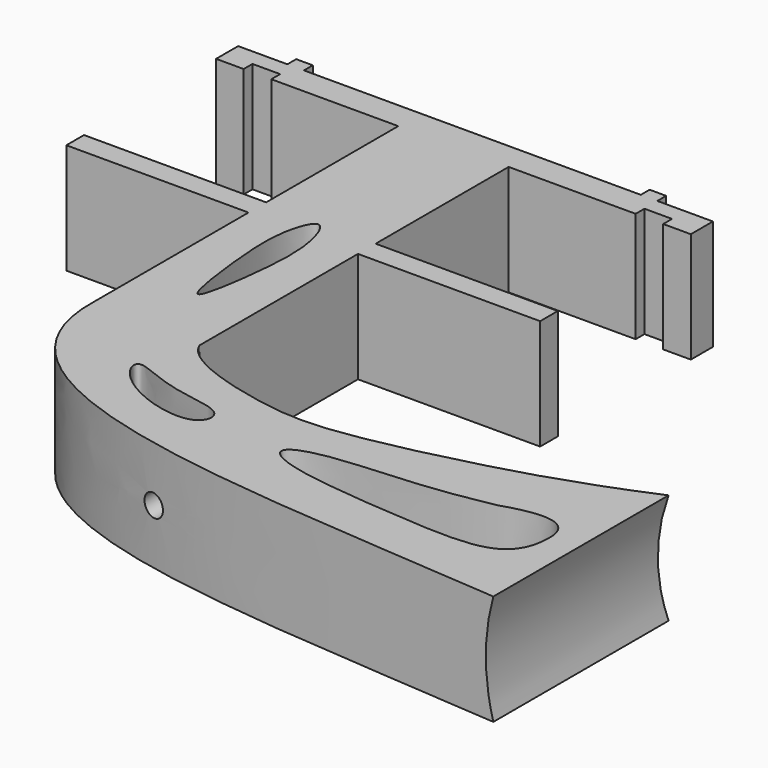
from build123d import *

# Parameters (mm, degrees)
CYLINDER003_R     = 2
CYLINDER003_DEPTH = 34
CYLINDER001_R     = 35
CYLINDER001_DEPTH = 100
EXTRUDE_DEPTH     = 20


with BuildPart() as cylinder:
    # Cylinder003 → Cylinder003 (new body)
    with BuildSketch(Plane(origin=(22.8, -95.5, -10), x_dir=(1, 0, 0), z_dir=(0, -1, 0))):
        Circle(CYLINDER003_R)
    extrude(amount=CYLINDER003_DEPTH)


with BuildPart() as drain_pipe001:
    # Cylinder001 → Cylinder001 (new body)
    with BuildSketch(Plane(origin=(123.3, -155.1, -10), x_dir=(1, 0, 0), z_dir=(0, 1, 0))):
        Circle(CYLINDER001_R)
    extrude(amount=CYLINDER001_DEPTH)


with BuildPart() as bracket001:
    # Sketch → Extrude (new body)
    with BuildSketch(Plane.XY):
        with BuildLine():
            add(Edge.make_bspline(
                [(9.242186, -69.33), (10.827276, -73.429492), (27.615939, -78.307585), (39.639567, -78.576037), (61.810331, -73.662283), (78.850841, -68.509173), (91.035842, -63.211941)],
                knots=[0, 0, 0, 0, 0.25, 0.5, 0.75, 1, 1, 1, 1], degree=3))
            Line((91.035842, -63.211941), (91.035842, -59.315908))
            Line((91.035842, -59.315908), (93.754241, -59.315908))
            Line((93.754241, -59.315908), (93.754241, -54.315908))
            Line((93.754241, -54.315908), (91.035842, -54.315908))
            Line((91.035842, -54.315908), (91.035842, -48.629474))
            Line((91.035842, -48.629474), (101.035842, -48.629474))
            Line((101.035842, -48.629474), (101.035842, -118.629474))
            Line((101.035842, -118.629474), (91.035842, -118.629474))
            Line((91.035842, -118.629474), (91.035842, -111.113045))
            Line((91.035842, -111.113045), (93.035842, -111.113045))
            Line((93.035842, -111.113045), (93.035842, -106.113045))
            Line((93.035842, -106.113045), (91.035842, -106.113045))
            Line((91.035842, -106.113045), (91.035842, -103.551941))
            add(Edge.make_bspline(
                [(-10.757814, -67.690441), (-12.083879, -99.944803), (39.127542, -99.207941), (91.035842, -103.551941)],
                knots=[0, 0, 0, 0, 1, 1, 1, 1], degree=3))
            Line((-10.757814, -67.690441), (-10.757814, -33.233494))
            Line((-10.757814, -33.233494), (-43.757814, -33.233494))
            Line((-43.757814, -33.233494), (-43.757814, -29.233494))
            Line((-43.757814, -29.233494), (-10.757814, -29.233494))
            Line((-10.757814, -29.233494), (-10.757814, 0.67))
            Line((-10.757814, 0.67), (-33.757814, 0.67))
            Line((-33.757814, 0.67), (-33.757814, 2.67))
            Line((-33.757814, 2.67), (-38.757814, 2.67))
            Line((-38.757814, 2.67), (-38.757814, 0.67))
            Line((-38.757814, 0.67), (-43.757814, 0.67))
            Line((-43.757814, 0.67), (-43.757814, 5.67))
            Line((-43.757814, 5.67), (-34.839867, 5.67))
            Line((-34.839867, 5.67), (-34.839867, 7.67))
            Line((-34.839867, 7.67), (-31.839867, 7.67))
            Line((-31.839867, 7.67), (-31.839867, 5.67))
            Line((-31.839867, 5.67), (29.178112, 5.67))
            Line((29.178112, 5.67), (29.178112, 7.67))
            Line((29.178112, 7.67), (32.178112, 7.67))
            Line((32.178112, 7.67), (32.178112, 5.67))
            Line((32.178112, 5.67), (42.242186, 5.67))
            Line((42.242186, 5.67), (42.242186, 0.67))
            Line((42.242186, 0.67), (37.242186, 0.67))
            Line((37.242186, 0.67), (37.242186, 2.67))
            Line((37.242186, 2.67), (32.242186, 2.67))
            Line((32.242186, 2.67), (32.242186, 0.67))
            Line((32.242186, 0.67), (9.242186, 0.67))
            Line((9.242186, 0.67), (9.242186, -29.452103))
            Line((9.242186, -29.452103), (42.242186, -29.452103))
            Line((42.242186, -29.452103), (42.242186, -33.452103))
            Line((42.242186, -33.452103), (9.242186, -33.452103))
            Line((9.242186, -33.452103), (9.242186, -68.33))
            Line((9.242186, -68.33), (9.242186, -69.33))
        make_face()
        with BuildLine():
            add(Edge.make_bspline(
                [(72.772036, -81.244883), (61.907298, -83.518709), (44.997022, -83.622495), (35.956661, -86.948995), (42.507868, -90.846149), (64.396727, -92.790316), (81.603448, -93.692317), (85.812812, -86.400151), (84.09773, -77.499903), (72.772036, -81.244883)],
                knots=[0, 0, 0, 0, 0.142857, 0.285714, 0.428571, 0.571429, 0.714286, 0.857143, 1, 1, 1, 1], degree=3))
        make_face(mode=Mode.SUBTRACT)
        with BuildLine():
            add(Edge.make_bspline(
                [(6.680865, -79.088199), (5.355656, -79.021302), (5.761318, -81.971364), (12.7469, -87.131353), (23.903595, -89.345392), (25.68801, -82.851549), (13.712575, -82.372747), (8.006075, -79.155097), (6.680865, -79.088199)],
                knots=[0, 0, 0, 0, 0.166667, 0.333333, 0.5, 0.666667, 0.833333, 1, 1, 1, 1], degree=3))
        make_face(mode=Mode.SUBTRACT)
        with BuildLine():
            add(Edge.make_bspline(
                [(-3.10286, -35.159514), (-3.511571, -37.900968), (-3.351595, -43.912471), (-0.753571, -63.822318), (2.149884, -43.935464), (2.076024, -34.601457), (-0.899326, -27.463747), (-2.694148, -32.41806), (-3.10286, -35.159514)],
                knots=[0, 0, 0, 0, 0.166667, 0.333333, 0.5, 0.666667, 0.833333, 1, 1, 1, 1], degree=3))
        make_face(mode=Mode.SUBTRACT)
    extrude(amount=EXTRUDE_DEPTH)


with BuildPart() as bracket001_1:
    # Extrude placement: moved
    add(bracket001.part.moved(Location((0, -23.5, -20))))

    # Cut: cut drain pipe001
    add(drain_pipe001.part, mode=Mode.SUBTRACT)

    # Cut001: cut Cylinder
    add(cylinder.part, mode=Mode.SUBTRACT)


with BuildPart() as bracket001_2:
    # Cut001 placement: moved
    add(bracket001_1.part.moved(Location((0, 0, 11))))


solid = bracket001_2.part
